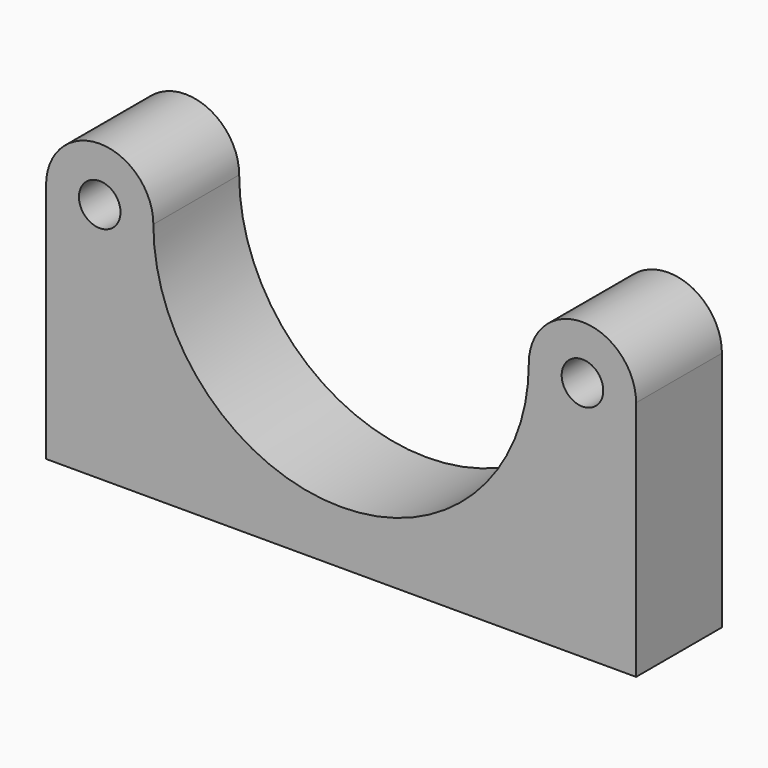
from build123d import *

# Parameters (mm, degrees)
F0_R     = 1.55
F1_DEPTH = 8


with BuildPart() as f1:
    # F0 (on Front) → F1 (new body)
    with BuildSketch(Plane.XZ):
        with BuildLine():
            ThreePointArc((14, 0), (0, -14), (-14, 0))
            ThreePointArc((-14, 0), (-18, -4), (-22, 0))
            Line((-22, 0), (-22, -18))
            Line((-22, -18), (22, -18))
            Line((22, -18), (22, 0))
            ThreePointArc((22, 0), (18, -4), (14, 0))
        make_face()
        with BuildLine():
            ThreePointArc((-22, 0), (-18, -4), (-14, 0))
            ThreePointArc((-14, 0), (-18, 4), (-22, 0))
        make_face()
        with Locations((-18, 0)):
            Circle(F0_R, mode=Mode.SUBTRACT)
        with BuildLine():
            ThreePointArc((22, 0), (18, 4), (14, 0))
            ThreePointArc((14, 0), (18, -4), (22, 0))
        make_face()
        with Locations((18, 0)):
            Circle(F0_R, mode=Mode.SUBTRACT)
    extrude(amount=F1_DEPTH)


solid = f1.part
